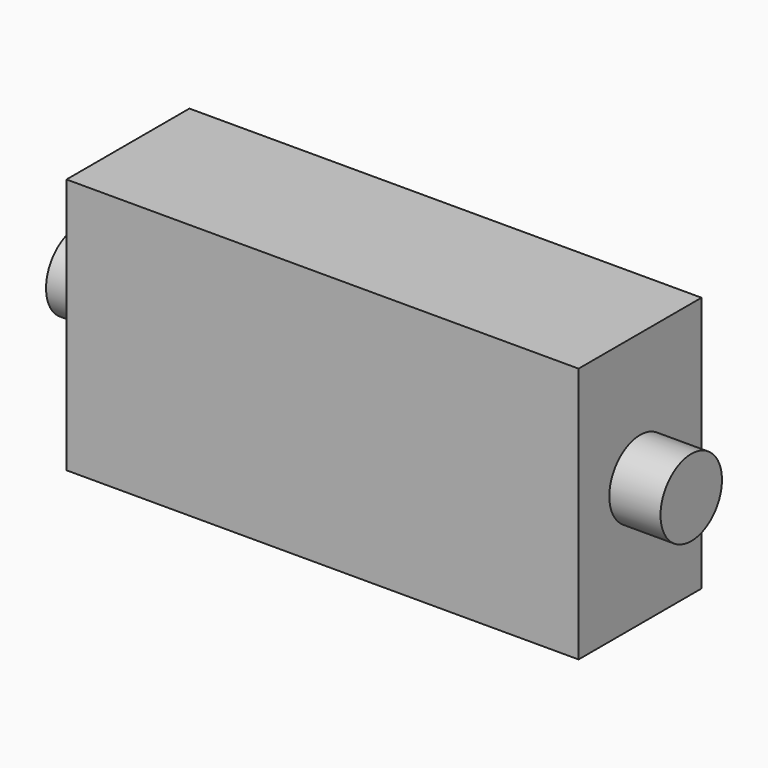
from build123d import *

# Parameters (mm, degrees)
F0_W     = 25.4
F0_H     = 7.62
F1_DEPTH = 12.7
F3_DEPTH = 2.54
F5_DEPTH = 2.54


with BuildPart() as f1:
    # F0 (on Top) → F1 (new body)
    with BuildSketch(Plane.XY):
        with Locations((12.7, -3.81)):
            Rectangle(F0_W, F0_H)
    extrude(amount=F1_DEPTH)

    # F2 (on face) → F3 (join)
    with BuildSketch(Plane.YZ.offset(25.4)):
        with BuildLine():
            Line((-5.715, 6.35), (-3.81, 6.35))
            Line((-3.81, 6.35), (-1.905, 6.35))
            ThreePointArc((-1.905, 6.35), (-3.81, 8.255), (-5.715, 6.35))
        make_face()
        with BuildLine():
            Line((-1.905, 6.35), (-3.81, 6.35))
            Line((-3.81, 6.35), (-5.715, 6.35))
            ThreePointArc((-5.715, 6.35), (-3.81, 4.445), (-1.905, 6.35))
        make_face()
    extrude(amount=F3_DEPTH)

    # F4 (on face) → F5 (join)
    with BuildSketch(Plane(origin=(0, 0, 0), x_dir=(0, -1, 0), z_dir=(-1, 0, 0))):
        with BuildLine():
            Line((1.905, 6.35), (3.81, 6.35))
            Line((3.81, 6.35), (5.715, 6.35))
            ThreePointArc((5.715, 6.35), (3.81, 8.255), (1.905, 6.35))
        make_face()
        with BuildLine():
            Line((5.715, 6.35), (3.81, 6.35))
            Line((3.81, 6.35), (1.905, 6.35))
            ThreePointArc((1.905, 6.35), (3.81, 4.445), (5.715, 6.35))
        make_face()
    extrude(amount=F5_DEPTH)


solid = f1.part
